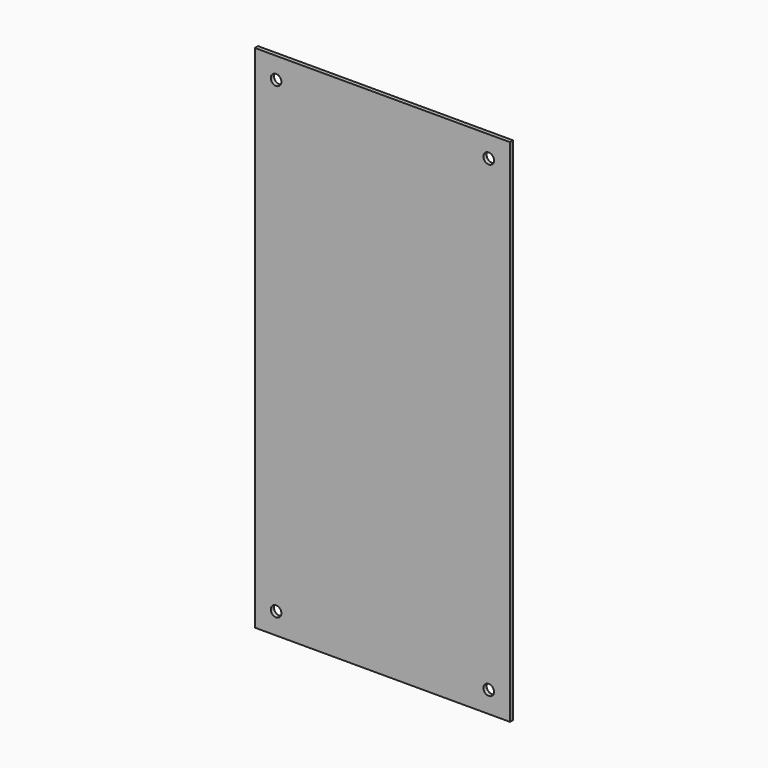
from build123d import *

# Parameters (mm, degrees)
F0_W     = 304.8
F0_H     = 609.6
F2_DEPTH = 4.7625
F1_D     = 12.7


with BuildPart() as f2:
    # F0 (on Front) → F2 (new body)
    with BuildSketch(Plane.XZ):
        Rectangle(F0_W, F0_H)
    extrude(amount=F2_DEPTH)

    # F1 (through all)
    with Locations(Plane(origin=(0, 0, 0), x_dir=(1, 0, 0), z_dir=(0, 1, 0))):
        with Locations((-127, 279.4), (127, 279.4), (-127, -279.4), (127, -279.4)):
            Hole(F1_D / 2)


solid = f2.part
